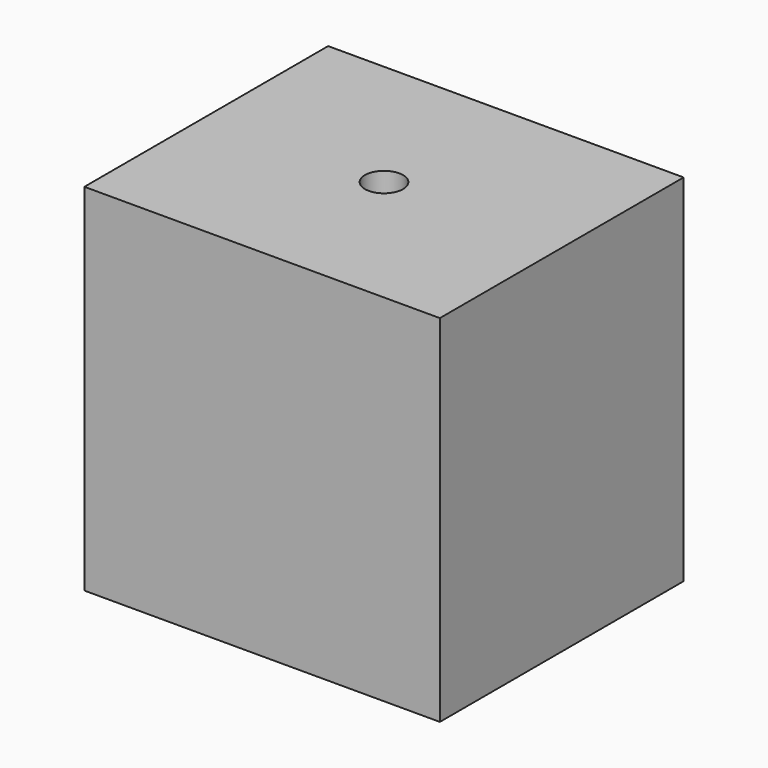
from build123d import *

# Parameters (mm, degrees)
F0_W     = 44.45
F0_H     = 44.45
F1_DEPTH = 19.05
F2_R     = 2.38125
F3_DEPTH = 44.451
F2_R_2   = 3.96875
F4_DEPTH = 3.81


with BuildPart() as f1:
    # F0 (on Front) → F1 (new body, symmetric)
    with BuildSketch(Plane.XZ):
        Rectangle(F0_W, F0_H)
    extrude(amount=F1_DEPTH, both=True)

    # F2 (on face) → F3 (cut, through all)
    with BuildSketch(Plane(origin=(0, 0, -22.225), x_dir=(1, 0, 0), z_dir=(0, 0, -1))):
        Circle(F2_R)
    extrude(amount=-F3_DEPTH, mode=Mode.SUBTRACT)

    # F2 (on face) → F4 (cut)
    with BuildSketch(Plane(origin=(0, 0, -22.225), x_dir=(1, 0, 0), z_dir=(0, 0, -1))):
        Circle(F2_R_2)
        Circle(F2_R, mode=Mode.SUBTRACT)
    extrude(amount=-F4_DEPTH, mode=Mode.SUBTRACT)


solid = f1.part
